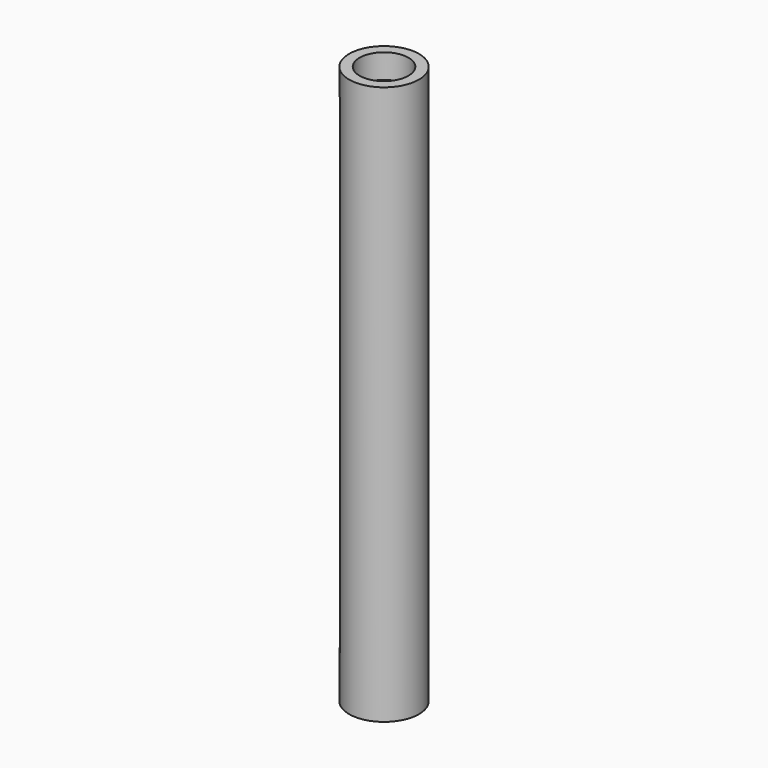
from build123d import *

# Parameters (mm, degrees)
F0_R     = 6.35
F0_R_2   = 4.445
F1_DEPTH = 101.6
F2_W     = 4.522531
F2_H     = 5.427036
F2_H_2   = 5.065232
F3_DEPTH = 25.4


with BuildPart() as f1:
    # F0 (on Top) → F1 (new body)
    with BuildSketch(Plane.XY):
        Circle(F0_R)
        Circle(F0_R_2, mode=Mode.SUBTRACT)
    extrude(amount=F1_DEPTH)

    # F2 (on Right) → F3 (cut)
    with BuildSketch(Plane.YZ):
        with Locations((2.261265, 10.890987)):
            Rectangle(F2_W, F2_H)
        Polygon((-4.884334, 8.177469), (0, 8.177469), (0, 13.604505), (0, 92.115611), (0, 97.180843), (-4.884334, 97.180843), align=None)
        with Locations((2.261265, 94.648227)):
            Rectangle(F2_W, F2_H_2)
    extrude(amount=-F3_DEPTH, mode=Mode.SUBTRACT)


solid = f1.part
